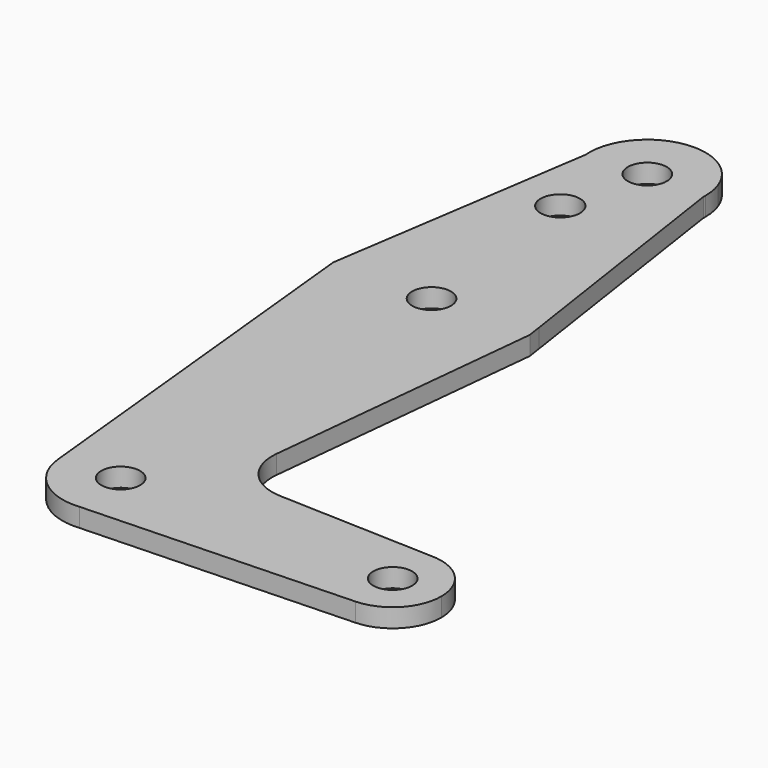
from build123d import *

# Parameters (mm, degrees)
F0_R     = 3.175
F0_R_2   = 3.2155850094
F1_DEPTH = 3.048


with BuildPart() as f1:
    # F0 (on Top) → F1 (new body)
    with BuildSketch(Plane.XY):
        with BuildLine():
            ThreePointArc((20.8380485389, 43.6243366756), (20.8460123248, 43.8490943624), (20.8486674135, 44.0739774213))
            ThreePointArc((20.8486674135, 44.0739774213), (20.7075310622, 45.7076016198), (20.2883045743, 47.2928134805))
            Line((20.2883045743, 47.2928134805), (20.8380485389, 43.6243366756))
        make_face()
        with BuildLine():
            Line((20.8380485389, 43.6243366756), (20.2883045743, 47.2928134805))
            ThreePointArc((20.2883045743, 47.2928134805), (11.4947007425, 53.5974417385), (2.4803889816, 47.6126285169))
            Line((2.4803889816, 47.6126285169), (1.8290711011, 43.3135394793))
            ThreePointArc((1.8290711011, 43.3135394793), (11.4793805601, 34.5502502929), (20.8380485389, 43.6243366756))
        make_face()
        with Locations((11.3236674135, 44.0739774213)):
            Circle(F0_R, mode=Mode.SUBTRACT)
        with BuildLine():
            Line((27.0228593645, 2.3526965767), (20.8380485389, 43.6243366756))
            ThreePointArc((20.8380485389, 43.6243366756), (11.4793805601, 34.5502502929), (1.8290711011, 43.3135394793))
            Line((1.8290711011, 43.3135394793), (-4.3727269733, 2.3779488711))
            ThreePointArc((-4.3727269733, 2.3779488711), (11.3359323796, 15.8749948649), (27.0228593645, 2.3526965767))
        make_face()
        with Locations((8.1481637045, 30.2663650364)):
            Circle(F0_R_2, mode=Mode.SUBTRACT)
        with BuildLine():
            Line((1.8290711011, 43.3135394793), (2.4803889816, 47.6126285169))
            ThreePointArc((2.4803889816, 47.6126285169), (1.9061330136, 45.5007467885), (1.8290711011, 43.3135394793))
        make_face()
        with BuildLine():
            Line((27.3754255146, 0), (27.0228593645, 2.3526965767))
            ThreePointArc((27.0228593645, 2.3526965767), (27.1542769566, 1.1796093414), (27.1981637045, 0))
            ThreePointArc((27.1981637045, 0), (10.1308213687, -15.8301593408), (-4.3727269733, 2.3779488711))
            Line((-4.3727269733, 2.3779488711), (-4.7329894859, 0))
            Line((-4.7329894859, 0), (1.8478131932, -64.4672828145))
            ThreePointArc((1.8478131932, -64.4672828145), (10.839303468, -53.9873184958), (20.8485711575, -63.5000000212))
            ThreePointArc((20.8485711575, -63.5000000212), (18.365147651, -69.9141894077), (12.2098676434, -72.9836756556))
            Line((12.2098676434, -72.9836756556), (56.0542108535, -71.4325372605))
            ThreePointArc((56.0542108535, -71.4325372605), (47.837920469, -63.6713312347), (55.7115808743, -55.5627420555))
            Line((55.7115808743, -55.5627420555), (30.2908926845, -54.6499382367))
            ThreePointArc((30.2908926845, -54.6499382367), (24.5800251587, -51.9251805627), (22.6674883506, -45.8935543113))
            Line((22.6674883506, -45.8935543113), (27.3754255146, 0))
        make_face()
        with BuildLine():
            ThreePointArc((27.1981637045, 0), (27.1542769566, 1.1796093414), (27.0228593645, 2.3526965767))
            ThreePointArc((27.0228593645, 2.3526965767), (11.3359323796, 15.8749948649), (-4.3727269733, 2.3779488711))
            ThreePointArc((-4.3727269733, 2.3779488711), (10.1308213687, -15.8301593408), (27.1981637045, 0))
        make_face()
        with Locations((11.3231637045, 0)):
            Circle(F0_R, mode=Mode.SUBTRACT)
        with BuildLine():
            ThreePointArc((20.8485711575, -63.5000000212), (10.839303468, -53.9873184958), (1.8478131932, -64.4672828145))
            ThreePointArc((1.8478131932, -64.4672828145), (5.2756831891, -70.8585784248), (12.2098676434, -72.9836756556))
            ThreePointArc((12.2098676434, -72.9836756556), (18.365147651, -69.9141894077), (20.8485711575, -63.5000000212))
        make_face()
        with Locations((11.3235711575, -63.5000000212)):
            Circle(F0_R, mode=Mode.SUBTRACT)
        with BuildLine():
            ThreePointArc((63.7110711578, -63.499999986), (61.364271399, -57.8654656607), (55.7115808743, -55.5627420555))
            ThreePointArc((55.7115808743, -55.5627420555), (47.837920469, -63.6713312347), (56.0542108535, -71.4325372605))
            ThreePointArc((56.0542108535, -71.4325372605), (61.4845904991, -69.0125460704), (63.7110711578, -63.499999986))
        make_face()
        with Locations((55.7735711578, -63.499999986)):
            Circle(F0_R, mode=Mode.SUBTRACT)
    extrude(amount=F1_DEPTH)


solid = f1.part
